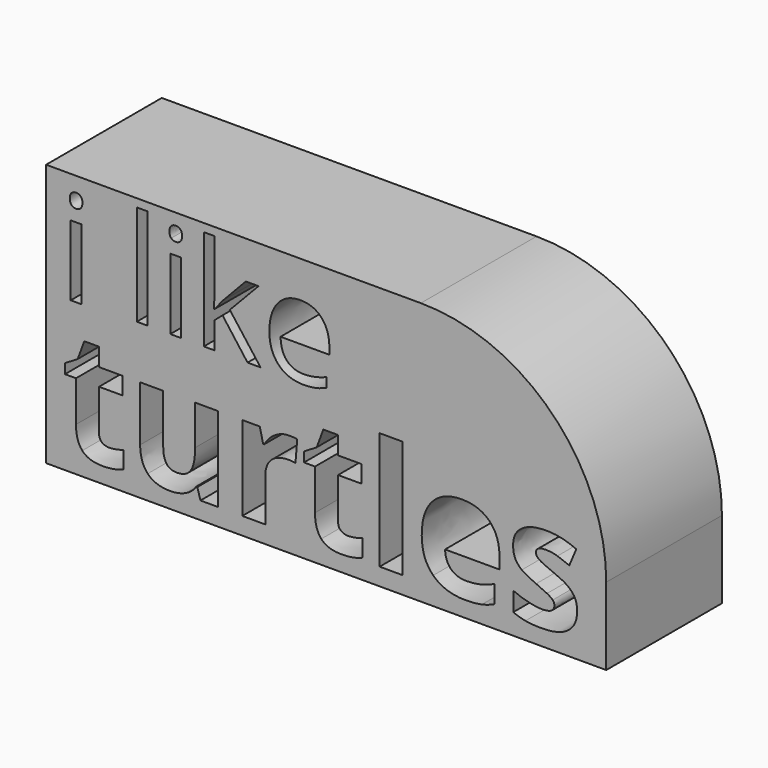
from build123d import *

# Parameters (mm, degrees)
F0_W     = 4.5713538299
F0_H     = 23.3268559023
F0_W_2   = 2.1168555437
F0_H_2   = 13.9696151008
F0_W_3   = 2.1317625997
F0_H_3   = 14.0679901809
F0_H_4   = 19.9744923357
F1_DEPTH = 28.702


with BuildPart() as f1:
    # F0 (on Front) → F1 (new body)
    with BuildSketch(Plane.XZ):
        with BuildLine():
            Line((-43.6779148877, -10.3900497779), (-43.6779148877, -62.5388324261))
            Line((-43.6779148877, -62.5388324261), (67.5022304058, -62.5388324261))
            Line((67.5022304058, -62.5388324261), (67.5022304058, -47.1848058672))
            ThreePointArc((67.5022304058, -47.1848058672), (56.7252958594, -21.1669843244), (30.7074743165, -10.3900497779))
            Line((30.7074743165, -10.3900497779), (-43.6779148877, -10.3900497779))
        make_face()
        with BuildLine():
            Line((-9.5312225264, -59.0975433588), (-13.0376859573, -59.0975433588))
            Line((-13.0376859573, -59.0975433588), (-13.651676818, -56.95337215))
            Line((-13.651676818, -56.95337215), (-13.8915169979, -56.95337215))
            add(Edge.make_bspline(
                [(-13.8915169979, -56.95337215), (-14.6254279486, -58.1237922282), (-15.9757281617, -58.7617671069)],
                knots=[0, 0, 0, 1, 1, 1], degree=2))
            add(Edge.make_bspline(
                [(-15.9757281617, -58.7617671069), (-17.3260283749, -59.3997419855), (-19.0480808669, -59.3997419855)],
                knots=[0, 0, 0, 1, 1, 1], degree=2))
            add(Edge.make_bspline(
                [(-19.0480808669, -59.3997419855), (-22.0029118839, -59.3997419855), (-23.5019130087, -57.8167967979)],
                knots=[0, 0, 0, 1, 1, 1], degree=2))
            add(Edge.make_bspline(
                [(-23.5019130087, -57.8167967979), (-25.0009141334, -56.2338516102), (-25.0009141334, -53.2646301823)],
                knots=[0, 0, 0, 1, 1, 1], degree=2))
            Line((-25.0009141334, -53.2646301823), (-25.0009141334, -42.3375115837))
            Line((-25.0009141334, -42.3375115837), (-20.4295603035, -42.3375115837))
            Line((-20.4295603035, -42.3375115837), (-20.4295603035, -52.1277877294))
            add(Edge.make_bspline(
                [(-20.4295603035, -52.1277877294), (-20.4295603035, -53.9409794898), (-19.7843902194, -54.84757537)],
                knots=[0, 0, 0, 1, 1, 1], degree=2))
            add(Edge.make_bspline(
                [(-19.7843902194, -54.84757537), (-19.1392201353, -55.7541712503), (-17.7289598772, -55.7541712503)],
                knots=[0, 0, 0, 1, 1, 1], degree=2))
            add(Edge.make_bspline(
                [(-17.7289598772, -55.7541712503), (-15.8102384376, -55.7541712503), (-14.9564073969, -54.4734246893)],
                knots=[0, 0, 0, 1, 1, 1], degree=2))
            add(Edge.make_bspline(
                [(-14.9564073969, -54.4734246893), (-14.1025763563, -53.1926781283), (-14.1025763563, -50.2234567005)],
                knots=[0, 0, 0, 1, 1, 1], degree=2))
            Line((-14.1025763563, -50.2234567005), (-14.1025763563, -42.3375115837))
            Line((-14.1025763563, -42.3375115837), (-9.5312225264, -42.3375115837))
            Line((-9.5312225264, -42.3375115837), (-9.5312225264, -59.0975433588))
        make_face(mode=Mode.SUBTRACT)
        with BuildLine():
            add(Edge.make_bspline(
                [(1.734070726, -42.8867455958), (3.0603869212, -42.0257193497), (4.6193480909, -42.0257193497)],
                knots=[0, 0, 0, 1, 1, 1], degree=2))
            add(Edge.make_bspline(
                [(4.6193480909, -42.0257193497), (5.5499279891, -42.0257193497), (6.1639188498, -42.1600298505)],
                knots=[0, 0, 0, 1, 1, 1], degree=2))
            Line((6.1639188498, -42.1600298505), (5.8185489906, -46.4435754645))
            add(Edge.make_bspline(
                [(5.8185489906, -46.4435754645), (5.2621197732, -46.2948745529), (4.4706471793, -46.2948745529)],
                knots=[0, 0, 0, 1, 1, 1], degree=2))
            add(Edge.make_bspline(
                [(4.4706471793, -46.2948745529), (2.2833047381, -46.2948745529), (1.0601198204, -47.4197249969)],
                knots=[0, 0, 0, 1, 1, 1], degree=2))
            add(Edge.make_bspline(
                [(1.0601198204, -47.4197249969), (-0.1630650974, -48.5445754409), (-0.1630650974, -50.5688265597)],
                knots=[0, 0, 0, 1, 1, 1], degree=2))
            Line((-0.1630650974, -50.5688265597), (-0.1630650974, -59.0975433588))
            Line((-0.1630650974, -59.0975433588), (-4.7344189273, -59.0975433588))
            Line((-4.7344189273, -59.0975433588), (-4.7344189273, -42.3375115837))
            Line((-4.7344189273, -42.3375115837), (-1.2711267288, -42.3375115837))
            Line((-1.2711267288, -42.3375115837), (-0.5947774213, -45.1580320999))
            Line((-0.5947774213, -45.1580320999), (-0.3741244558, -45.1580320999))
            add(Edge.make_bspline(
                [(-0.3741244558, -45.1580320999), (0.4077545309, -43.7477718418), (1.734070726, -42.8867455958)],
                knots=[0, 0, 0, 1, 1, 1], degree=2))
        make_face(mode=Mode.SUBTRACT)
        with BuildLine():
            add(Edge.make_bspline(
                [(-32.6230350523, -55.2888813011), (-32.076199442, -55.7541712503), (-31.1744003654, -55.7541712503)],
                knots=[0, 0, 0, 1, 1, 1], degree=2))
            add(Edge.make_bspline(
                [(-31.1744003654, -55.7541712503), (-29.9751994656, -55.7541712503), (-28.2963182059, -55.231319658)],
                knots=[0, 0, 0, 1, 1, 1], degree=2))
            Line((-28.2963182059, -55.231319658), (-28.2963182059, -58.6322534097))
            add(Edge.make_bspline(
                [(-28.2963182059, -58.6322534097), (-30.0039802872, -59.3997419855), (-32.4935213551, -59.3997419855)],
                knots=[0, 0, 0, 1, 1, 1], degree=2))
            add(Edge.make_bspline(
                [(-32.4935213551, -59.3997419855), (-35.2372930138, -59.3997419855), (-36.4892587531, -58.0110673436)],
                knots=[0, 0, 0, 1, 1, 1], degree=2))
            add(Edge.make_bspline(
                [(-36.4892587531, -58.0110673436), (-37.7412244925, -56.6223927017), (-37.7412244925, -53.8498402214)],
                knots=[0, 0, 0, 1, 1, 1], degree=2))
            Line((-37.7412244925, -53.8498402214), (-37.7412244925, -45.7720229606))
            Line((-37.7412244925, -45.7720229606), (-39.9285669337, -45.7720229606))
            Line((-39.9285669337, -45.7720229606), (-39.9285669337, -43.8389111102))
            Line((-39.9285669337, -43.8389111102), (-37.4102450442, -42.3087307621))
            Line((-37.4102450442, -42.3087307621), (-36.0911240544, -38.768689706))
            Line((-36.0911240544, -38.768689706), (-33.1698706626, -38.768689706))
            Line((-33.1698706626, -38.768689706), (-33.1698706626, -42.3375115837))
            Line((-33.1698706626, -42.3375115837), (-28.4785967427, -42.3375115837))
            Line((-28.4785967427, -42.3375115837), (-28.4785967427, -45.7720229606))
            Line((-28.4785967427, -45.7720229606), (-33.1698706626, -45.7720229606))
            Line((-33.1698706626, -45.7720229606), (-33.1698706626, -53.8498402214))
            add(Edge.make_bspline(
                [(-33.1698706626, -53.8498402214), (-33.1698706626, -54.823591352), (-32.6230350523, -55.2888813011)],
                knots=[0, 0, 0, 1, 1, 1], degree=2))
        make_face(mode=Mode.SUBTRACT)
        with BuildLine():
            add(Edge.make_bspline(
                [(42.8114983467, -59.107136966), (41.4492061245, -59.3997419855), (39.4825166489, -59.3997419855)],
                knots=[0, 0, 0, 1, 1, 1], degree=2))
            add(Edge.make_bspline(
                [(39.4825166489, -59.3997419855), (35.4388112149, -59.3997419855), (33.1603295053, -57.1644315084)],
                knots=[0, 0, 0, 1, 1, 1], degree=2))
            add(Edge.make_bspline(
                [(33.1603295053, -57.1644315084), (30.8818477958, -54.9291210312), (30.8818477958, -50.8374475612)],
                knots=[0, 0, 0, 1, 1, 1], degree=2))
            add(Edge.make_bspline(
                [(30.8818477958, -50.8374475612), (30.8818477958, -46.6258540012), (32.9876445758, -44.3257866755)],
                knots=[0, 0, 0, 1, 1, 1], degree=2))
            add(Edge.make_bspline(
                [(32.9876445758, -44.3257866755), (35.0934413558, -42.0257193497), (38.810964145, -42.0257193497)],
                knots=[0, 0, 0, 1, 1, 1], degree=2))
            add(Edge.make_bspline(
                [(38.810964145, -42.0257193497), (42.3605988083, -42.0257193497), (44.339280293, -44.0475720667)],
                knots=[0, 0, 0, 1, 1, 1], degree=2))
            add(Edge.make_bspline(
                [(44.339280293, -44.0475720667), (46.3179617776, -46.0694247837), (46.3179617776, -49.6382466614)],
                knots=[0, 0, 0, 1, 1, 1], degree=2))
            Line((46.3179617776, -49.6382466614), (46.3179617776, -51.8591667278))
            Line((46.3179617776, -51.8591667278), (35.5107632689, -51.8591667278))
            add(Edge.make_bspline(
                [(35.5107632689, -51.8591667278), (35.5875121265, -53.806668989), (36.6667929363, -54.9003402096)],
                knots=[0, 0, 0, 1, 1, 1], degree=2))
            add(Edge.make_bspline(
                [(36.6667929363, -54.9003402096), (37.746073746, -55.9940114302), (39.6935760073, -55.9940114302)],
                knots=[0, 0, 0, 1, 1, 1], degree=2))
            add(Edge.make_bspline(
                [(39.6935760073, -55.9940114302), (41.2093659446, -55.9940114302), (42.5572677559, -55.6798207945)],
                knots=[0, 0, 0, 1, 1, 1], degree=2))
            add(Edge.make_bspline(
                [(42.5572677559, -55.6798207945), (43.9051695672, -55.3656301587), (45.3729914686, -54.6748904405)],
                knots=[0, 0, 0, 1, 1, 1], degree=2))
            Line((45.3729914686, -54.6748904405), (45.3729914686, -58.2149314966))
            add(Edge.make_bspline(
                [(45.3729914686, -58.2149314966), (44.1737905688, -58.8145319465), (42.8114983467, -59.107136966)],
                knots=[0, 0, 0, 1, 1, 1], degree=2))
        make_face(mode=Mode.SUBTRACT)
        with BuildLine():
            add(Edge.make_bspline(
                [(61.2935826139, -51.976688416), (61.7300917414, -52.8760890908), (61.7300917414, -54.118461223)],
                knots=[0, 0, 0, 1, 1, 1], degree=2))
            add(Edge.make_bspline(
                [(61.7300917414, -54.118461223), (61.7300917414, -56.6991415593), (59.9384855971, -58.0494417724)],
                knots=[0, 0, 0, 1, 1, 1], degree=2))
            add(Edge.make_bspline(
                [(59.9384855971, -58.0494417724), (58.1468794529, -59.3997419855), (54.5780575752, -59.3997419855)],
                knots=[0, 0, 0, 1, 1, 1], degree=2))
            add(Edge.make_bspline(
                [(54.5780575752, -59.3997419855), (52.7504754039, -59.3997419855), (51.4601352358, -59.1503081984)],
                knots=[0, 0, 0, 1, 1, 1], degree=2))
            add(Edge.make_bspline(
                [(51.4601352358, -59.1503081984), (50.1697950676, -58.9008744112), (49.0473430254, -58.4211940513)],
                knots=[0, 0, 0, 1, 1, 1], degree=2))
            Line((49.0473430254, -58.4211940513), (49.0473430254, -54.6461096189))
            add(Edge.make_bspline(
                [(49.0473430254, -54.6461096189), (50.3184959792, -55.2457100688), (51.9158315777, -55.6510399729)],
                knots=[0, 0, 0, 1, 1, 1], degree=2))
            add(Edge.make_bspline(
                [(51.9158315777, -55.6510399729), (53.5131671762, -56.056369877), (54.7267584867, -56.056369877)],
                knots=[0, 0, 0, 1, 1, 1], degree=2))
            add(Edge.make_bspline(
                [(54.7267584867, -56.056369877), (57.2162995547, -56.056369877), (57.2162995547, -54.6173287973)],
                knots=[0, 0, 0, 1, 1, 1], degree=2))
            add(Edge.make_bspline(
                [(57.2162995547, -54.6173287973), (57.2162995547, -54.0752899906), (56.8853201063, -53.7371153368)],
                knots=[0, 0, 0, 1, 1, 1], degree=2))
            add(Edge.make_bspline(
                [(56.8853201063, -53.7371153368), (56.554340658, -53.3989406831), (55.7460792515, -52.9720251628)],
                knots=[0, 0, 0, 1, 1, 1], degree=2))
            add(Edge.make_bspline(
                [(55.7460792515, -52.9720251628), (54.9378178451, -52.5451096425), (53.5899160338, -51.9790868178)],
                knots=[0, 0, 0, 1, 1, 1], degree=2))
            add(Edge.make_bspline(
                [(53.5899160338, -51.9790868178), (51.6568041833, -51.1684270095), (50.7478099013, -50.4776872913)],
                knots=[0, 0, 0, 1, 1, 1], degree=2))
            add(Edge.make_bspline(
                [(50.7478099013, -50.4776872913), (49.8388156193, -49.786947573), (49.4286889116, -48.8947421036)],
                knots=[0, 0, 0, 1, 1, 1], degree=2))
            add(Edge.make_bspline(
                [(49.4286889116, -48.8947421036), (49.0185622039, -48.0025366342), (49.0185622039, -46.7026028588)],
                knots=[0, 0, 0, 1, 1, 1], degree=2))
            add(Edge.make_bspline(
                [(49.0185622039, -46.7026028588), (49.0185622039, -44.4672923816), (50.7478099013, -43.2465058657)],
                knots=[0, 0, 0, 1, 1, 1], degree=2))
            add(Edge.make_bspline(
                [(50.7478099013, -43.2465058657), (52.4770575988, -42.0257193497), (55.657338385, -42.0257193497)],
                knots=[0, 0, 0, 1, 1, 1], degree=2))
            add(Edge.make_bspline(
                [(55.657338385, -42.0257193497), (58.684121456, -42.0257193497), (61.5478132046, -43.3448403395)],
                knots=[0, 0, 0, 1, 1, 1], degree=2))
            Line((61.5478132046, -43.3448403395), (60.1711305717, -46.640244412))
            add(Edge.make_bspline(
                [(60.1711305717, -46.640244412), (58.9095712251, -46.1030024089), (57.8159000045, -45.7576325498)],
                knots=[0, 0, 0, 1, 1, 1], degree=2))
            add(Edge.make_bspline(
                [(57.8159000045, -45.7576325498), (56.722228784, -45.4122626907), (55.5805895274, -45.4122626907)],
                knots=[0, 0, 0, 1, 1, 1], degree=2))
            add(Edge.make_bspline(
                [(55.5805895274, -45.4122626907), (53.5563384086, -45.4122626907), (53.5563384086, -46.5059339112)],
                knots=[0, 0, 0, 1, 1, 1], degree=2))
            add(Edge.make_bspline(
                [(53.5563384086, -46.5059339112), (53.5563384086, -47.1199247719), (54.208703698, -47.5708243102)],
                knots=[0, 0, 0, 1, 1, 1], degree=2))
            add(Edge.make_bspline(
                [(54.208703698, -47.5708243102), (54.8610689875, -48.0217238486), (57.0675986431, -48.9043357108)],
                knots=[0, 0, 0, 1, 1, 1], degree=2))
            add(Edge.make_bspline(
                [(57.0675986431, -48.9043357108), (59.0294913151, -49.7006051082), (59.9432824007, -50.3889464247)],
                knots=[0, 0, 0, 1, 1, 1], degree=2))
            add(Edge.make_bspline(
                [(59.9432824007, -50.3889464247), (60.8570734864, -51.0772877412), (61.2935826139, -51.976688416)],
                knots=[0, 0, 0, 1, 1, 1], degree=2))
        make_face(mode=Mode.SUBTRACT)
        with BuildLine():
            add(Edge.make_bspline(
                [(14.8173525425, -55.2888813011), (15.3641881528, -55.7541712503), (16.2659872294, -55.7541712503)],
                knots=[0, 0, 0, 1, 1, 1], degree=2))
            add(Edge.make_bspline(
                [(16.2659872294, -55.7541712503), (17.4651881292, -55.7541712503), (19.1440693889, -55.231319658)],
                knots=[0, 0, 0, 1, 1, 1], degree=2))
            Line((19.1440693889, -55.231319658), (19.1440693889, -58.6322534097))
            add(Edge.make_bspline(
                [(19.1440693889, -58.6322534097), (17.4364073076, -59.3997419855), (14.9468662397, -59.3997419855)],
                knots=[0, 0, 0, 1, 1, 1], degree=2))
            add(Edge.make_bspline(
                [(14.9468662397, -59.3997419855), (12.203094581, -59.3997419855), (10.9511288416, -58.0110673436)],
                knots=[0, 0, 0, 1, 1, 1], degree=2))
            add(Edge.make_bspline(
                [(10.9511288416, -58.0110673436), (9.6991631023, -56.6223927017), (9.6991631023, -53.8498402214)],
                knots=[0, 0, 0, 1, 1, 1], degree=2))
            Line((9.6991631023, -53.8498402214), (9.6991631023, -45.7720229606))
            Line((9.6991631023, -45.7720229606), (7.5118206611, -45.7720229606))
            Line((7.5118206611, -45.7720229606), (7.5118206611, -43.8389111102))
            Line((7.5118206611, -43.8389111102), (10.0301425506, -42.3087307621))
            Line((10.0301425506, -42.3087307621), (11.3492635404, -38.768689706))
            Line((11.3492635404, -38.768689706), (14.2705169322, -38.768689706))
            Line((14.2705169322, -38.768689706), (14.2705169322, -42.3375115837))
            Line((14.2705169322, -42.3375115837), (18.9617908521, -42.3375115837))
            Line((18.9617908521, -42.3375115837), (18.9617908521, -45.7720229606))
            Line((18.9617908521, -45.7720229606), (14.2705169322, -45.7720229606))
            Line((14.2705169322, -45.7720229606), (14.2705169322, -53.8498402214))
            add(Edge.make_bspline(
                [(14.2705169322, -53.8498402214), (14.2705169322, -54.823591352), (14.8173525425, -55.2888813011)],
                knots=[0, 0, 0, 1, 1, 1], degree=2))
        make_face(mode=Mode.SUBTRACT)
        with Locations((24.8162896448, -47.4341154077)):
            Rectangle(F0_W, F0_H, mode=Mode.SUBTRACT)
        with Locations((-37.7290446776, -25.508916006)):
            Rectangle(F0_W_2, F0_H_2, mode=Mode.SUBTRACT)
        with Locations((-17.9524711157, -24.9302957967)):
            Rectangle(F0_W_3, F0_H_3, mode=Mode.SUBTRACT)
        with BuildLine():
            add(Edge.make_bspline(
                [(9.8035708252, -32.0094727534), (8.79724744, -32.2230597576), (7.3719649311, -32.2230597576)],
                knots=[0, 0, 0, 1, 1, 1], degree=2))
            add(Edge.make_bspline(
                [(7.3719649311, -32.2230597576), (4.2544161582, -32.2230597576), (2.4491952284, -30.3213139317)],
                knots=[0, 0, 0, 1, 1, 1], degree=2))
            add(Edge.make_bspline(
                [(2.4491952284, -30.3213139317), (0.6439742986, -28.4195681058), (0.6439742986, -25.0473579047)],
                knots=[0, 0, 0, 1, 1, 1], degree=2))
            add(Edge.make_bspline(
                [(0.6439742986, -25.0473579047), (0.6439742986, -21.6422881646), (2.3198107932, -19.6399100002)],
                knots=[0, 0, 0, 1, 1, 1], degree=2))
            add(Edge.make_bspline(
                [(2.3198107932, -19.6399100002), (3.9956472877, -17.6375318357), (6.8215676511, -17.6375318357)],
                knots=[0, 0, 0, 1, 1, 1], degree=2))
            add(Edge.make_bspline(
                [(6.8215676511, -17.6375318357), (9.4626531069, -17.6375318357), (11.0029440026, -19.3770336873)],
                knots=[0, 0, 0, 1, 1, 1], degree=2))
            add(Edge.make_bspline(
                [(11.0029440026, -19.3770336873), (12.5432348984, -21.1165355389), (12.5432348984, -23.9671005565)],
                knots=[0, 0, 0, 1, 1, 1], degree=2))
            Line((12.5432348984, -23.9671005565), (12.5432348984, -25.31434166))
            Line((12.5432348984, -25.31434166), (2.8537783037, -25.31434166))
            add(Edge.make_bspline(
                [(2.8537783037, -25.31434166), (2.9194973819, -27.7911294203), (4.1065482322, -29.0747051667)],
                knots=[0, 0, 0, 1, 1, 1], degree=2))
            add(Edge.make_bspline(
                [(4.1065482322, -29.0747051667), (5.2935990825, -30.3582809132), (7.4500063365, -30.3582809132)],
                knots=[0, 0, 0, 1, 1, 1], degree=2))
            add(Edge.make_bspline(
                [(7.4500063365, -30.3582809132), (9.7214219774, -30.3582809132), (11.9394408672, -29.4094617214)],
                knots=[0, 0, 0, 1, 1, 1], degree=2))
            Line((11.9394408672, -29.4094617214), (11.9394408672, -31.3112075473))
            add(Edge.make_bspline(
                [(11.9394408672, -31.3112075473), (10.8098942104, -31.7958857492), (9.8035708252, -32.0094727534)],
                knots=[0, 0, 0, 1, 1, 1], degree=2))
        make_face(mode=Mode.SUBTRACT)
        with Locations((-24.6024203428, -21.9770447193)):
            Rectangle(F0_W_3, F0_H_4, mode=Mode.SUBTRACT)
        with BuildLine():
            add(Edge.make_bspline(
                [(-38.6100481409, -15.8036023907), (-38.9669361179, -15.4528324933), (-38.9669361179, -14.7390565392)],
                knots=[0, 0, 0, 1, 1, 1], degree=2))
            add(Edge.make_bspline(
                [(-38.9669361179, -14.7390565392), (-38.9669361179, -14.013044426), (-38.6100481409, -13.6745106878)],
                knots=[0, 0, 0, 1, 1, 1], degree=2))
            add(Edge.make_bspline(
                [(-38.6100481409, -13.6745106878), (-38.2531601639, -13.3359769495), (-37.7147691585, -13.3359769495)],
                knots=[0, 0, 0, 1, 1, 1], degree=2))
            add(Edge.make_bspline(
                [(-37.7147691585, -13.3359769495), (-37.2049291913, -13.3359769495), (-36.8358050551, -13.6806287674)],
                knots=[0, 0, 0, 1, 1, 1], degree=2))
            add(Edge.make_bspline(
                [(-36.8358050551, -13.6806287674), (-36.4666809188, -14.0252805852), (-36.4666809188, -14.7390565392)],
                knots=[0, 0, 0, 1, 1, 1], degree=2))
            add(Edge.make_bspline(
                [(-36.4666809188, -14.7390565392), (-36.4666809188, -15.4528324933), (-36.8358050551, -15.8036023907)],
                knots=[0, 0, 0, 1, 1, 1], degree=2))
            add(Edge.make_bspline(
                [(-36.8358050551, -15.8036023907), (-37.2049291913, -16.1543722881), (-37.7147691585, -16.1543722881)],
                knots=[0, 0, 0, 1, 1, 1], degree=2))
            add(Edge.make_bspline(
                [(-37.7147691585, -16.1543722881), (-38.2531601639, -16.1543722881), (-38.6100481409, -15.8036023907)],
                knots=[0, 0, 0, 1, 1, 1], degree=2))
        make_face(mode=Mode.SUBTRACT)
        with BuildLine():
            add(Edge.make_bspline(
                [(-18.8396786716, -15.156636633), (-19.1990798806, -14.8033965876), (-19.1990798806, -14.0845941696)],
                knots=[0, 0, 0, 1, 1, 1], degree=2))
            add(Edge.make_bspline(
                [(-19.1990798806, -14.0845941696), (-19.1990798806, -13.3534694244), (-18.8396786716, -13.0125517062)],
                knots=[0, 0, 0, 1, 1, 1], degree=2))
            add(Edge.make_bspline(
                [(-18.8396786716, -13.0125517062), (-18.4802774626, -12.6716339879), (-17.9380950673, -12.6716339879)],
                knots=[0, 0, 0, 1, 1, 1], degree=2))
            add(Edge.make_bspline(
                [(-17.9380950673, -12.6716339879), (-17.4246647687, -12.6716339879), (-17.0529412326, -13.0187128698)],
                knots=[0, 0, 0, 1, 1, 1], degree=2))
            add(Edge.make_bspline(
                [(-17.0529412326, -13.0187128698), (-16.6812176964, -13.3657917516), (-16.6812176964, -14.0845941696)],
                knots=[0, 0, 0, 1, 1, 1], degree=2))
            add(Edge.make_bspline(
                [(-16.6812176964, -14.0845941696), (-16.6812176964, -14.8033965876), (-17.0529412326, -15.156636633)],
                knots=[0, 0, 0, 1, 1, 1], degree=2))
            add(Edge.make_bspline(
                [(-17.0529412326, -15.156636633), (-17.4246647687, -15.5098766785), (-17.9380950673, -15.5098766785)],
                knots=[0, 0, 0, 1, 1, 1], degree=2))
            add(Edge.make_bspline(
                [(-17.9380950673, -15.5098766785), (-18.4802774626, -15.5098766785), (-18.8396786716, -15.156636633)],
                knots=[0, 0, 0, 1, 1, 1], degree=2))
        make_face(mode=Mode.SUBTRACT)
        with BuildLine():
            Line((-10.3639713028, -24.7639443799), (-10.2612852431, -24.7639443799))
            add(Edge.make_bspline(
                [(-10.2612852431, -24.7639443799), (-9.710887963, -23.9794228837), (-8.5813413061, -22.7102231856)],
                knots=[0, 0, 0, 1, 1, 1], degree=2))
            Line((-8.5813413061, -22.7102231856), (-4.0385100244, -17.8963007062))
            Line((-4.0385100244, -17.8963007062), (-1.508325513, -17.8963007062))
            Line((-1.508325513, -17.8963007062), (-7.2094555483, -23.8890591512))
            Line((-7.2094555483, -23.8890591512), (-1.1099036013, -31.9642908871))
            Line((-1.1099036013, -31.9642908871), (-3.6893774213, -31.9642908871))
            Line((-3.6893774213, -31.9642908871), (-8.6593827115, -25.31434166))
            Line((-8.6593827115, -25.31434166), (-10.2612852431, -26.7026571873))
            Line((-10.2612852431, -26.7026571873), (-10.2612852431, -31.9642908871))
            Line((-10.2612852431, -31.9642908871), (-12.3684031884, -31.9642908871))
            Line((-12.3684031884, -31.9642908871), (-12.3684031884, -11.9897985514))
            Line((-12.3684031884, -11.9897985514), (-10.2612852431, -11.9897985514))
            Line((-10.2612852431, -11.9897985514), (-10.2612852431, -22.5828924716))
            add(Edge.make_bspline(
                [(-10.2612852431, -22.5828924716), (-10.2612852431, -23.28526512), (-10.3639713028, -24.7639443799)],
                knots=[0, 0, 0, 1, 1, 1], degree=2))
        make_face(mode=Mode.SUBTRACT)
    extrude(amount=F1_DEPTH)


solid = f1.part
